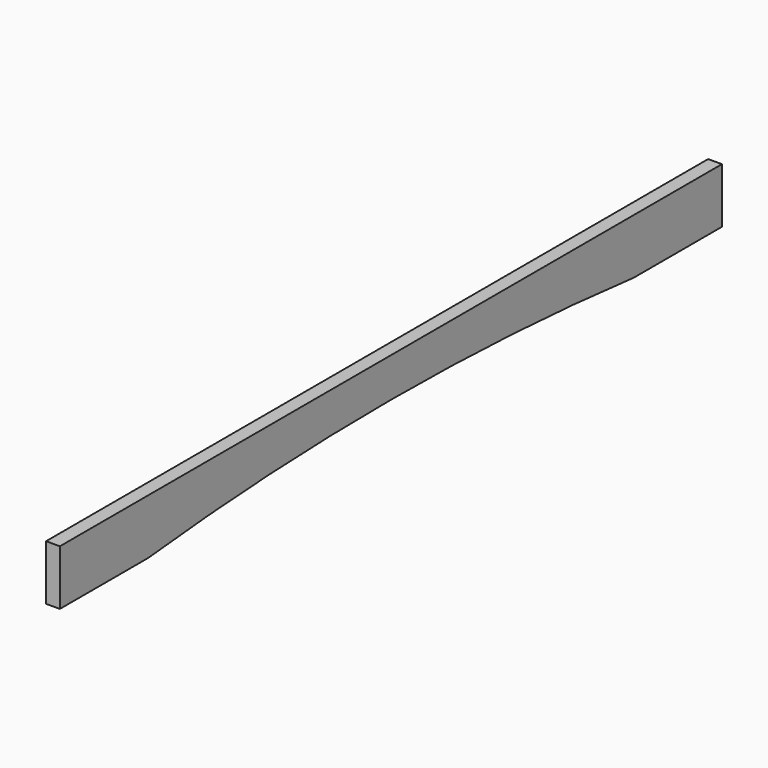
from build123d import *

# Parameters (mm, degrees)
F1_DEPTH = 25.4


with BuildPart() as f1:
    # F0 (on Right) → F1 (new body)
    with BuildSketch(Plane.YZ):
        with BuildLine():
            Line((762, 64.476146), (-762, 64.476146))
            Line((-762, 64.476146), (-762, -37.123854))
            Line((-762, -37.123854), (-558.8, -37.123854))
            ThreePointArc((-558.8, -37.123854), (0, -7.803793), (558.8, -37.123854))
            Line((558.8, -37.123854), (762, -37.123854))
            Line((762, -37.123854), (762, 64.476146))
        make_face()
    extrude(amount=-F1_DEPTH)


solid = f1.part
